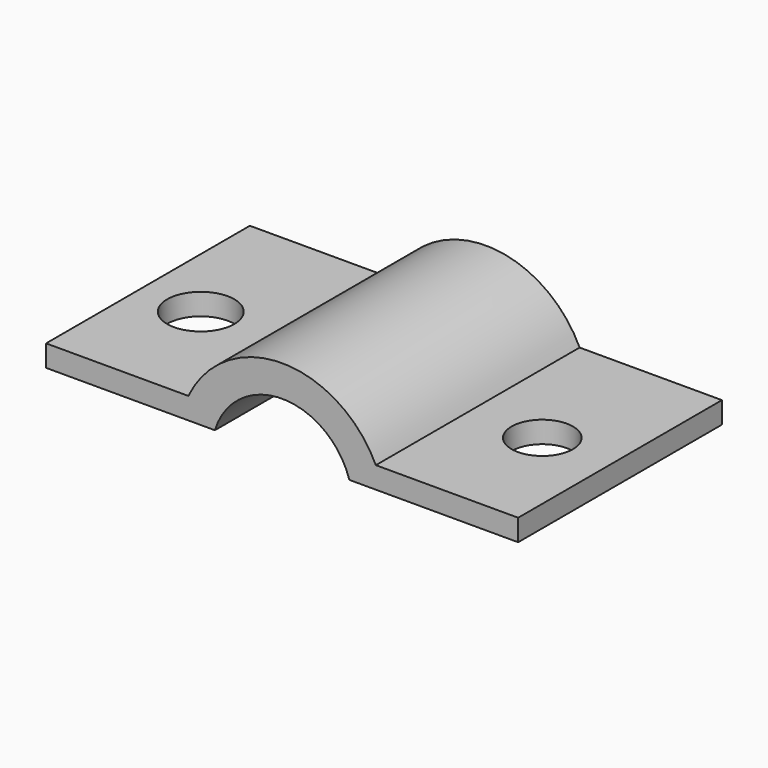
from build123d import *

# Parameters (mm, degrees)
F1_DEPTH = 76.2
F2_R     = 10.043167
F2_R_2   = 9.191604
F3_DEPTH = 25.4


with BuildPart() as f1:
    # F0 (on Front) → F1 (new body)
    with BuildSketch(Plane.XZ):
        with BuildLine():
            Line((-63.273966, 17.029652), (-63.273966, 10.570128))
            Line((-63.273966, 10.570128), (-12.772239, 10.570128))
            ThreePointArc((-12.772239, 10.570128), (7.340368, 25.418198), (27.452976, 10.570128))
            Line((27.452976, 10.570128), (77.954703, 10.570128))
            Line((77.954703, 10.570128), (77.954703, 17.029652))
            Line((77.954703, 17.029652), (35.380573, 17.029652))
            ThreePointArc((35.380573, 17.029652), (7.340368, 34.793164), (-20.699836, 17.029652))
            Line((-20.699836, 17.029652), (-63.273966, 17.029652))
        make_face()
    extrude(amount=F1_DEPTH)

    # F2 (on face) → F3 (cut)
    with BuildSketch(Plane.XY.offset(17.029652)):
        with Locations((-45.073345, -41.106056)):
            Circle(F2_R)
        with Locations((57.104558, -41.106056)):
            Circle(F2_R_2)
    extrude(amount=-F3_DEPTH, mode=Mode.SUBTRACT)


solid = f1.part
